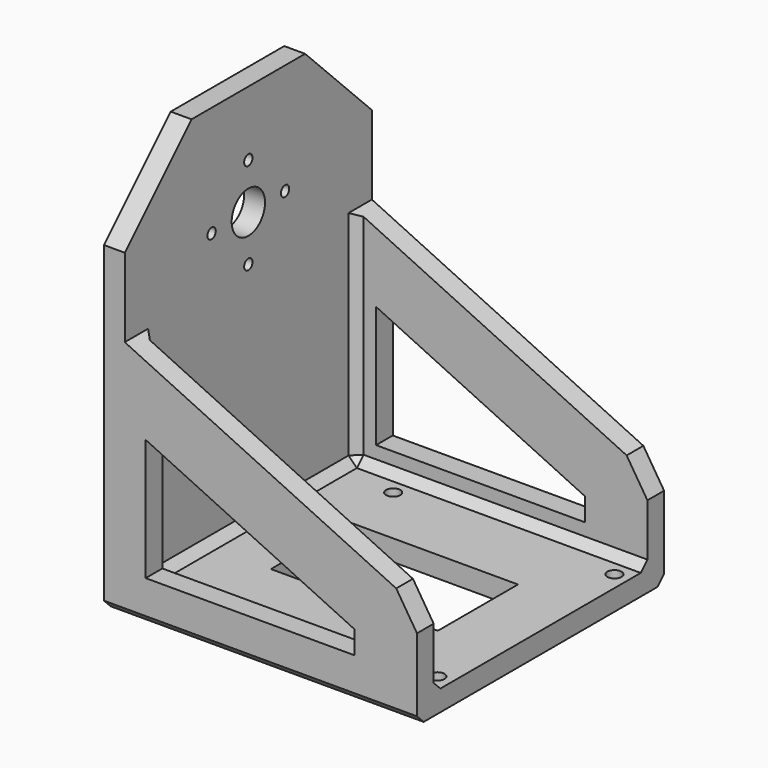
from build123d import *

# Parameters (mm, degrees)
SKETCH004_W      = 75
SKETCH004_H      = 74
SKETCH004_W_2    = 40
SKETCH004_H_2    = 24
PAD_DEPTH        = 5
SKETCH006_W      = 74
SKETCH006_H      = 97
PAD003_DEPTH     = 5
PAD004_DEPTH     = 5
HOLE_D           = 3.4
HOLE_CSINK_D     = 6.1
HOLE_CSINK_ANGLE = 90
SKETCH002_R      = 5
SKETCH002_R_2    = 1.25
POCKET_DEPTH     = 5.001
CHAMFER_SIZE     = 2
CHAMFER001_SIZE  = 5.5
CHAMFER002_SIZE  = 20


with BuildPart() as part:
    # Sketch004 → Pad (new body)
    with BuildSketch(Plane.XY):
        with Locations((32.5, 0)):
            Rectangle(SKETCH004_W, SKETCH004_H)
        with Locations((35, 0)):
            Rectangle(SKETCH004_W_2, SKETCH004_H_2, mode=Mode.SUBTRACT)
    extrude(amount=-PAD_DEPTH)

    # Sketch006 → Pad003 (join)
    with BuildSketch(Plane.YZ):
        with Locations((0, 43.5)):
            Rectangle(SKETCH006_W, SKETCH006_H)
    extrude(amount=-PAD003_DEPTH)

    # Sketch001 → Pad004 (join)
    with BuildSketch(Plane.XZ.offset(37)):
        Polygon((-5, 55.5), (70, 20), (70, -5), (-5, -5), align=None)
        Polygon((5, 34.171185), (55, 10.504519), (55, 5), (5, 5), align=None, mode=Mode.SUBTRACT)
    pad004 = extrude(amount=-PAD004_DEPTH)

    # Mirrored: Pad004 across XZ
    add(pad004.mirror(Plane.XZ))

    # Hole (through all)
    with Locations(Plane(origin=(0, 0, -5), x_dir=(1, 0, 0), z_dir=(0, 0, -1))):
        with Locations((66.5, -26.5), (13.5, -26.5), (13.5, 26.5), (66.5, 26.5)):
            CounterSinkHole(HOLE_D / 2, HOLE_CSINK_D / 2, counter_sink_angle=HOLE_CSINK_ANGLE)

    # Sketch002 → Pocket (cut, through all)
    with BuildSketch(Plane.YZ):
        with Locations((0, 65.5)):
            Circle(SKETCH002_R)
        with Locations((0, 76.5)):
            Circle(SKETCH002_R_2)
        with Locations((11, 65.5)):
            Circle(SKETCH002_R_2)
        with Locations((0, 54.5)):
            Circle(SKETCH002_R_2)
        with Locations((-11, 65.5)):
            Circle(SKETCH002_R_2)
    extrude(amount=-POCKET_DEPTH, mode=Mode.SUBTRACT)

    # Chamfer
    chamfer_edges = [part.edges().sort_by_distance(p)[0] for p in [
        (0, 0, 0),
        (35, 32, 0),
        (35, -32, 0),
        (0, -32, 26.566667),
        (0, 32, 26.566667),
        (32.5, -37, -5),
        (32.5, 37, -5),
    ]]
    chamfer(chamfer_edges, length=CHAMFER_SIZE)

    # Chamfer001
    chamfer001_edges = [part.edges().sort_by_distance(p)[0] for p in [
        (70, -34.5, 20),
        (70, 34.5, 20),
    ]]
    chamfer(chamfer001_edges, length=CHAMFER001_SIZE)

    # Chamfer002
    chamfer002_edges = [part.edges().sort_by_distance(p)[0] for p in [
        (-2.5, -37, 92),
        (-2.5, 37, 92),
    ]]
    chamfer(chamfer002_edges, length=CHAMFER002_SIZE)


solid = part.part
